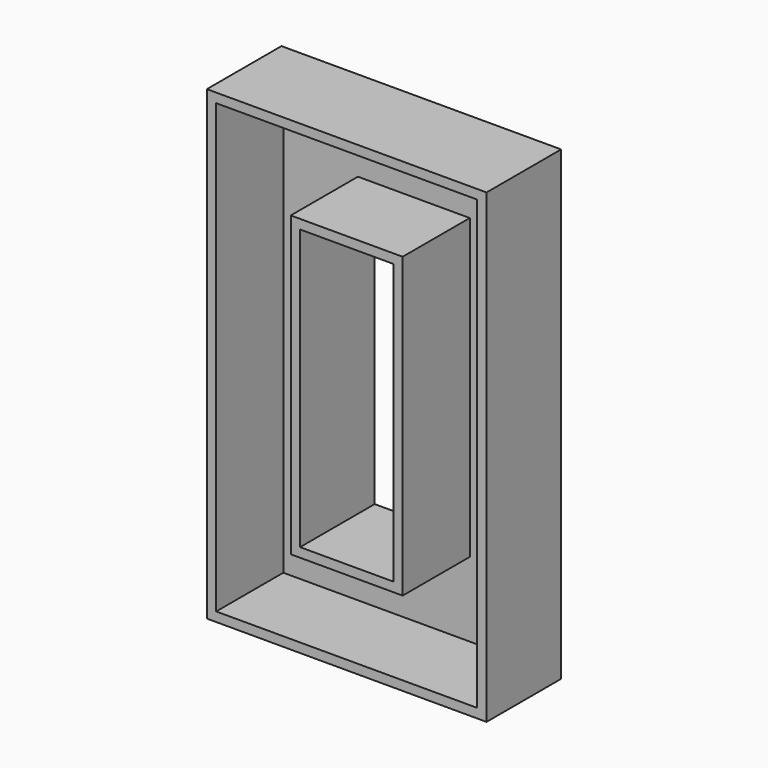
from build123d import *

# Parameters (mm, degrees)
F0_W     = 76.2
F0_H     = 127
F0_W_2   = 25.4
F0_H_2   = 76.2
F1_DEPTH = 25.4
F2_T     = -2.54


with BuildPart() as f1:
    # F0 (on Front) → F1 (new body)
    with BuildSketch(Plane.XZ):
        with Locations((-38.1, 63.5)):
            Rectangle(F0_W, F0_H)
        with Locations((-38.1, 63.5)):
            Rectangle(F0_W_2, F0_H_2, mode=Mode.SUBTRACT)
    extrude(amount=F1_DEPTH)

    # F2
    f2_openings = [f1.faces().sort_by_distance(p)[0] for p in [
        (-38.1, -25.4, 1.481062),
    ]]
    offset(amount=F2_T, openings=f2_openings, kind=Kind.INTERSECTION)


solid = f1.part
